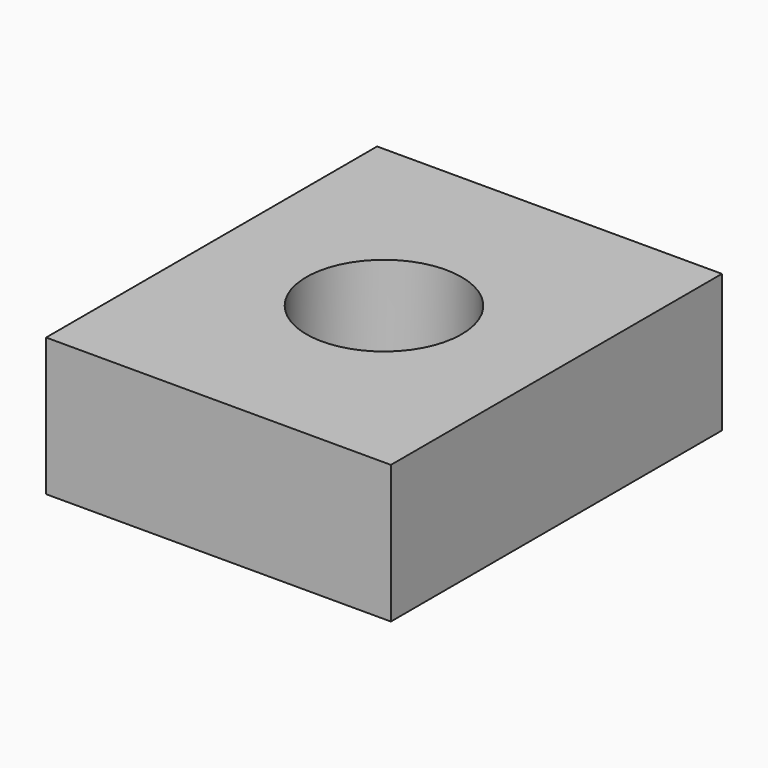
from build123d import *

# Parameters (mm, degrees)
F0_W     = 63.5
F0_H     = 57.15
F0_R     = 14.2875
F0_H_2   = 9.525
F1_DEPTH = 25.4


with BuildPart() as f1:
    # F0 (on Top) → F1 (new body)
    with BuildSketch(Plane.XY):
        with Locations((-29.351736, 14.522733)):
            Rectangle(F0_W, F0_H)
        with Locations((-29.351736, 14.522733)):
            Circle(F0_R, mode=Mode.SUBTRACT)
        with Locations((-29.351736, 47.860233)):
            Rectangle(F0_W, F0_H_2)
        with Locations((-29.351736, -18.814767)):
            Rectangle(F0_W, F0_H_2)
    extrude(amount=F1_DEPTH)


solid = f1.part
